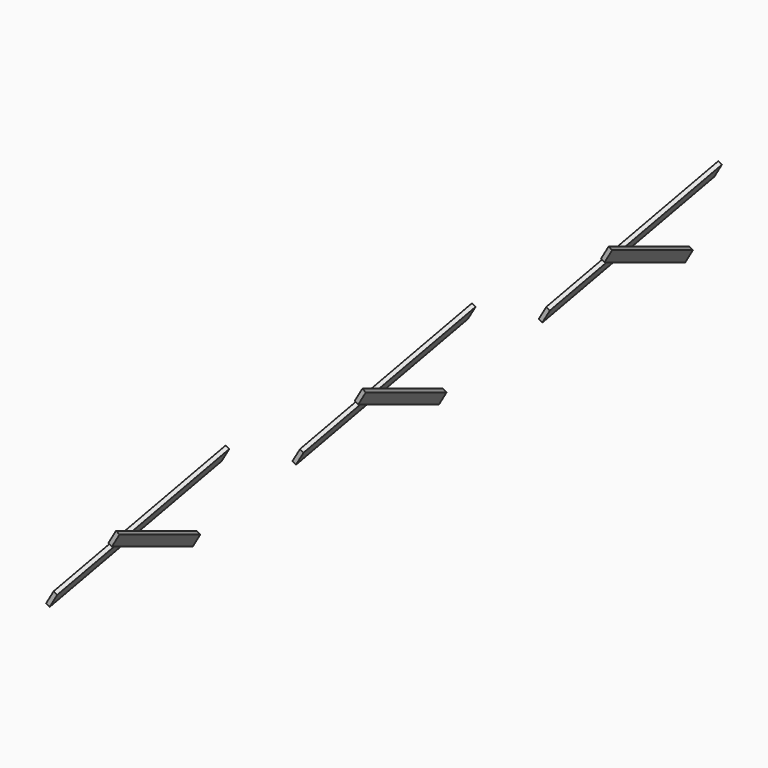
from build123d import *

# Parameters (mm, degrees)
PAD012_DEPTH          = 45
CLONE_PLACEMENT_ANGLE = 180
ARRAY002_Y_COUNT      = 3
ARRAY002_Y_PITCH      = 3390
ARRAY002_PITCH_ANGLE  = 30


with BuildPart() as pad012:
    # Sketch014 → Pad012 (new body)
    with BuildSketch(Plane(origin=(-1488.522385, 4.2e-05, 258.479584), x_dir=(0, 1, 0), z_dir=(1, 0, 0))):
        Polygon((0, 0), (0, 167.431578), (1740, 1172.021046), (1740, 1004.589468), align=None)
    extrude(amount=-PAD012_DEPTH)


with BuildPart() as obj1:
    # Clone base: copy of Pad012
    add(pad012.part)


with BuildPart() as obj1_1:
    # Clone placement: moved
    add(obj1.part.moved(Location((-2832.044769, 0, 1726.644076))).rotate(Axis((-2832.044769, 0, 1726.644076), (0, 1, 0)), CLONE_PLACEMENT_ANGLE))

    # Compound001: union Pad012
    add(pad012.part)

    # Array002 Y: obj1_3


with BuildPart() as obj1_2:
    add(obj1_1.part)
    with Locations(*[(0, i * ARRAY002_Y_PITCH, 0) for i in range(1, ARRAY002_Y_COUNT)]):
        add(obj1_1.part)


with BuildPart() as obj1_3:
    # Array002 pitch: moved
    add(obj1_2.part.rotate(Axis((0, 0, 0), (0, 1, 0)), ARRAY002_PITCH_ANGLE))


with BuildPart() as obj1_4:
    # Array002 placement: moved
    add(obj1_3.part.moved(Location((309.991495, 144.999958, -795.12375))))


solid = obj1_4.part
